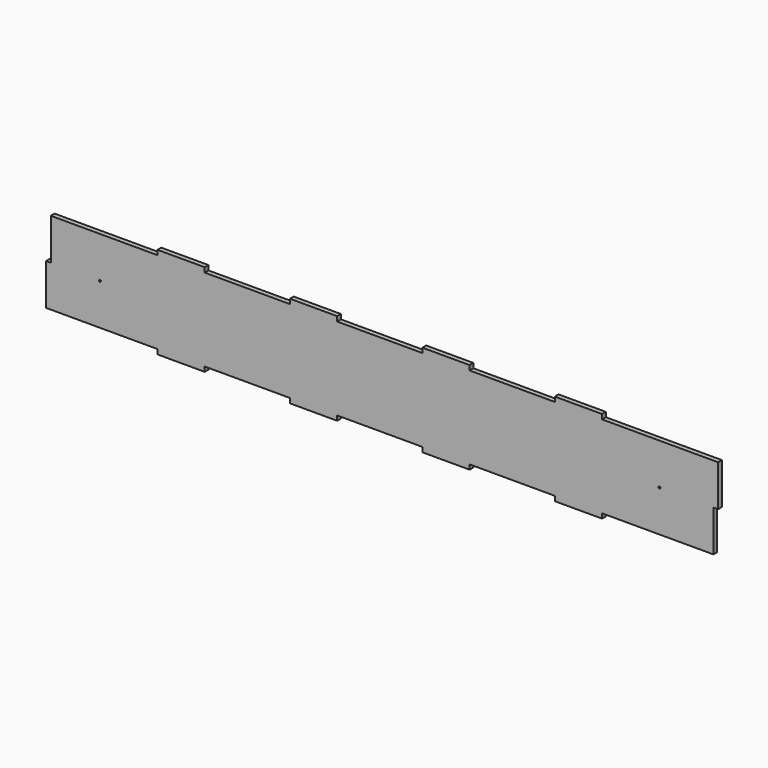
from build123d import *

# Parameters (mm, degrees)
F0_R     = 1.016
F0_W     = 50.8
F0_H     = 5.08
F1_DEPTH = 5.08
F2_W     = 5.08
F2_H     = 44.45
F3_DEPTH = 5.081
F4_DEPTH = 5.08


with BuildPart() as f1:
    # F0 (on Front) → F1 (new body)
    with BuildSketch(Plane.XZ):
        Polygon((0, 88.9), (0, 0), (119.7864, 0), (170.5864, 0), (262.22198, 0), (313.02198, 0), (404.67026, 0), (455.47026, 0), (547.10584, 0), (597.90584, 0), (717.69224, 0), (717.69224, 88.9), (597.90584, 88.9), (547.10584, 88.9), (455.47026, 88.9), (404.67026, 88.9), (313.02198, 88.9), (262.22198, 88.9), (170.5864, 88.9), (119.7864, 88.9), align=None)
        with Locations((57.9374, 44.45)):
            Circle(F0_R, mode=Mode.SUBTRACT)
        with Locations((659.75484, 44.45)):
            Circle(F0_R, mode=Mode.SUBTRACT)
        with Locations((145.1864, 91.44)):
            Rectangle(F0_W, F0_H)
        with Locations((145.1864, -2.54)):
            Rectangle(F0_W, F0_H)
        with Locations((287.62198, -2.54)):
            Rectangle(F0_W, F0_H)
        with Locations((287.62198, 91.44)):
            Rectangle(F0_W, F0_H)
        with Locations((430.07026, 91.44)):
            Rectangle(F0_W, F0_H)
        with Locations((430.07026, -2.54)):
            Rectangle(F0_W, F0_H)
        with Locations((572.50584, 91.44)):
            Rectangle(F0_W, F0_H)
        with Locations((572.50584, -2.54)):
            Rectangle(F0_W, F0_H)
    extrude(amount=F1_DEPTH)

    # F2 (on face) → F3 (cut, through all)
    with BuildSketch(Plane.XZ.offset(5.08)):
        with Locations((2.54, 66.675)):
            Rectangle(F2_W, F2_H)
    extrude(amount=-F3_DEPTH, mode=Mode.SUBTRACT)

    # F2 (on face) → F4 (join)
    with BuildSketch(Plane.XZ.offset(5.08)):
        with Locations((720.23224, 66.675)):
            Rectangle(F2_W, F2_H)
    extrude(amount=-F4_DEPTH)


solid = f1.part
